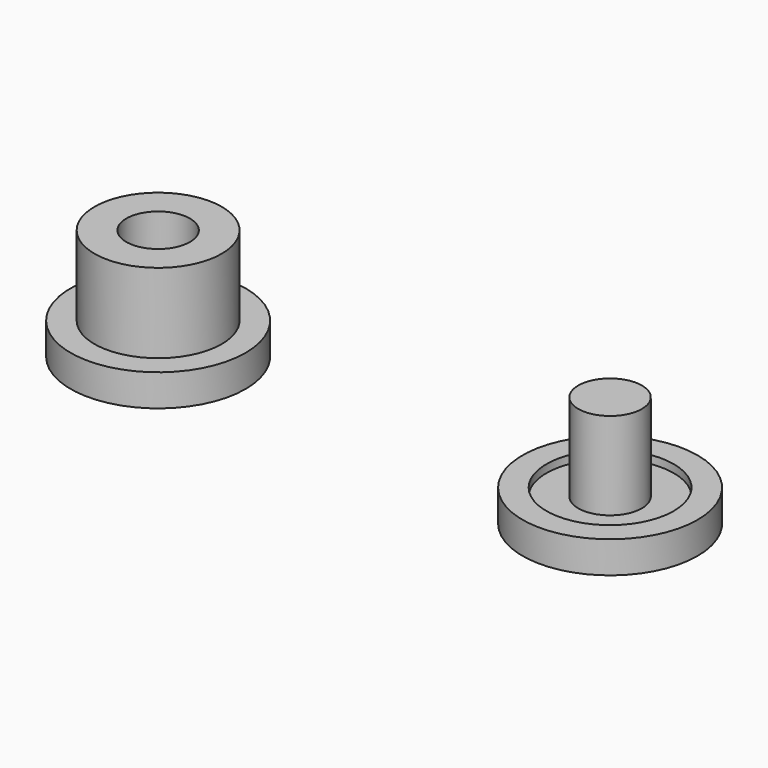
from build123d import *

# Parameters (mm, degrees)
F0_R     = 5.5
F0_R_2   = 4
F1_DEPTH = 2
F0_R_3   = 2
F2_DEPTH = 7
F3_DEPTH = 1.5
F4_DEPTH = 1.5


with BuildPart() as f1:
    # F0 (on Top) → F1 (new body)
    with BuildSketch(Plane.XY):
        Circle(F0_R)
        Circle(F0_R_2, mode=Mode.SUBTRACT)
    extrude(amount=F1_DEPTH)



with BuildPart() as f1b:
    # F0 (on Top) → F1, piece 2 (new body)
    with BuildSketch(Plane.XY):
        with Locations((-28.4153819084, 0)):
            Circle(F0_R)
        with Locations((-28.4153819084, 0)):
            Circle(F0_R_2, mode=Mode.SUBTRACT)
    extrude(amount=F1_DEPTH)

    # F0 (on Top) → F2 (join)
    with BuildSketch(Plane.XY):
        with Locations((-28.4153819084, 0)):
            Circle(F0_R_2)
        with Locations((-28.4153819084, 0)):
            Circle(F0_R_3, mode=Mode.SUBTRACT)
    extrude(amount=F2_DEPTH)

    # F0 (on Top) → F4 (join)
    with BuildSketch(Plane.XY):
        with Locations((-28.4153819084, 0)):
            Circle(F0_R_3)
    extrude(amount=F4_DEPTH)


with BuildPart() as f2:
    # F0 (on Top) → F2, piece 2 (new body)
    with BuildSketch(Plane.XY):
        Circle(F0_R_3)
    extrude(amount=F2_DEPTH)


with BuildPart() as f1_1:
    add(f1.part)

    add(f2.part)  # F3 merges F2
    # F0 (on Top) → F3 (join)
    with BuildSketch(Plane.XY):
        Circle(F0_R_2)
        Circle(F0_R_3, mode=Mode.SUBTRACT)
    extrude(amount=F3_DEPTH)


solid = Compound([f1b.part, f1_1.part])
